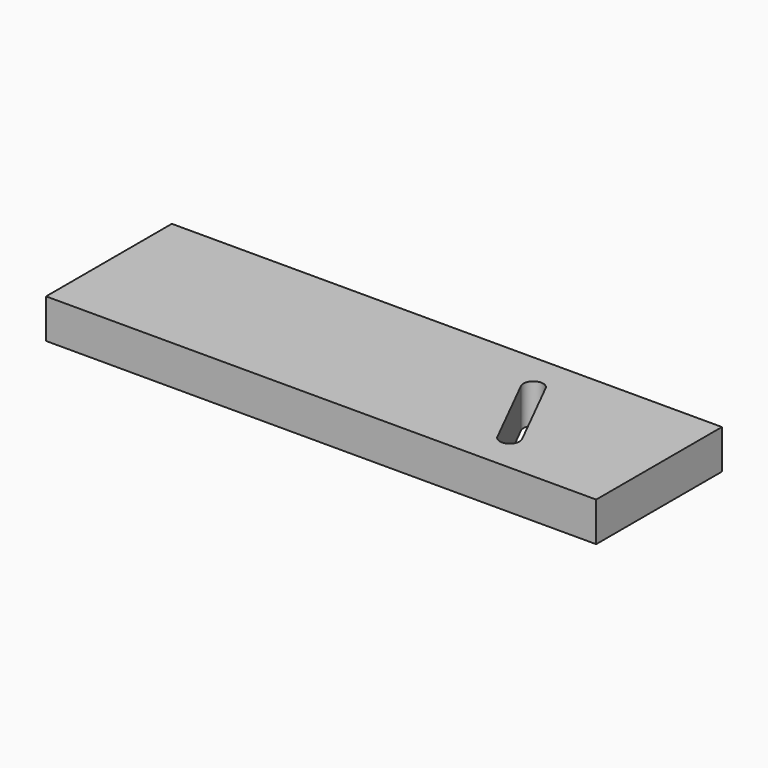
from build123d import *

# Parameters (mm, degrees)
F0_W     = 44.45
F0_H     = 12.7
F1_DEPTH = 3.175
F3_DEPTH = 3.176


with BuildPart() as f1:
    # F0 (on Top) → F1 (new body)
    with BuildSketch(Plane.XY):
        with Locations((-1.5875, 0)):
            Rectangle(F0_W, F0_H)
    extrude(amount=F1_DEPTH)

    # F2 (on Top) → F3 (cut, through all)
    with BuildSketch(Plane.XY):
        with BuildLine():
            ThreePointArc((8.647452, 3.529976), (7.582524, 3.884952), (7.227548, 2.820024))
            Line((7.227548, 2.820024), (10.402548, -3.529976))
            ThreePointArc((10.402548, -3.529976), (11.467476, -3.884952), (11.822452, -2.820024))
            Line((11.822452, -2.820024), (8.647452, 3.529976))
        make_face()
    extrude(amount=F3_DEPTH, mode=Mode.SUBTRACT)


solid = f1.part
